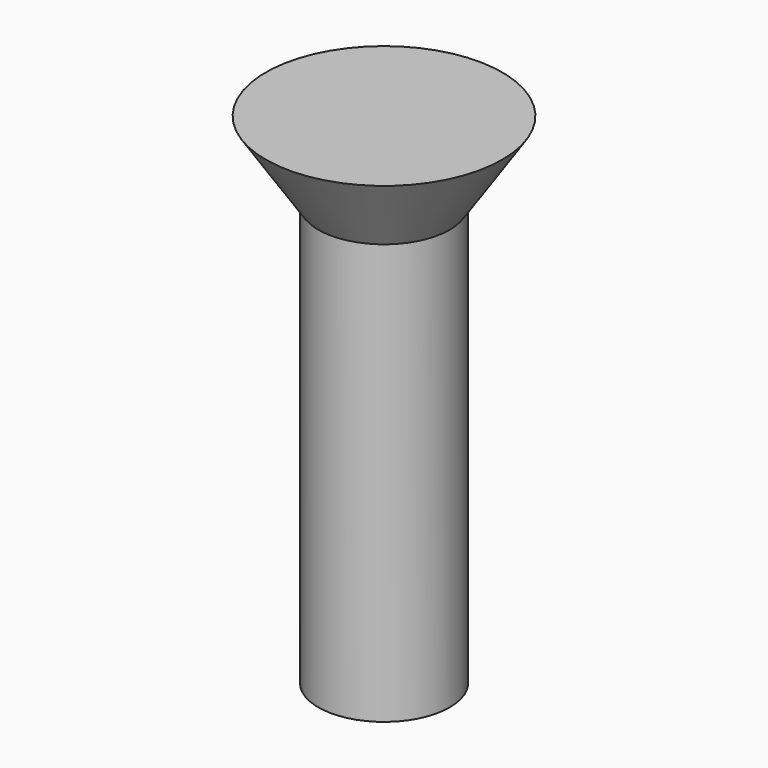
from build123d import *

# Parameters (mm, degrees)
CYLINDER011_R                   = 2.5
CYLINDER011_DEPTH               = 16
FUSION001018017_PLACEMENT_ANGLE = 180
CLONE024_PLACEMENT_ANGLE        = 180


with BuildPart() as cone003:
    # Cone003 → Cone003 (revolve)
    with BuildSketch(Plane(origin=(0, 0, -3), x_dir=(1, 0, 0), z_dir=(0, -1, 0))):
        Polygon((0, 0), (4.5, 0), (2.5, 3), (0, 3), align=None)
    revolve(axis=Axis((0, 0, -3), (0, 0, 1)))


with BuildPart() as obj1:
    # Cylinder011 → Cylinder011 (new body)
    with BuildSketch(Plane.XY):
        Circle(CYLINDER011_R)
    extrude(amount=CYLINDER011_DEPTH)

    # Fusion001018017: union Cone003
    add(cone003.part)


with BuildPart() as obj1_1:
    # Fusion001018017 placement: moved
    add(obj1.part.moved(Location((45, 15, 21))).rotate(Axis((45, 15, 21), (0, 1, 0)), FUSION001018017_PLACEMENT_ANGLE))


with BuildPart() as obj1_2:
    # Clone024 placement: moved
    add(obj1_1.part.moved(Location((90, 270, 0))).rotate(Axis((90, 270, 0), (0, 0, 1)), CLONE024_PLACEMENT_ANGLE))


solid = obj1_2.part
